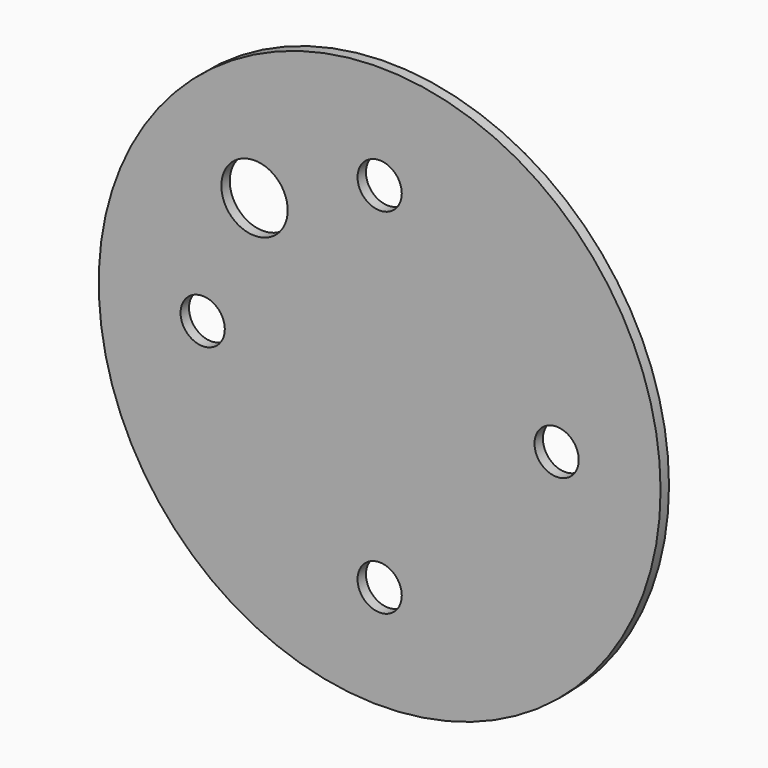
from build123d import *

# Parameters (mm, degrees)
F0_R     = 127
F0_R_2   = 10
F0_R_3   = 15
F1_DEPTH = 4.763


with BuildPart() as f1:
    # F0 (on Front) → F1 (new body)
    with BuildSketch(Plane.XZ):
        Circle(F0_R)
        with Locations((0, -80)):
            Circle(F0_R_2, mode=Mode.SUBTRACT)
        with Locations((-80, 0)):
            Circle(F0_R_2, mode=Mode.SUBTRACT)
        with Locations((-56.568542, 56.568542)):
            Circle(F0_R_3, mode=Mode.SUBTRACT)
        with Locations((80, 0)):
            Circle(F0_R_2, mode=Mode.SUBTRACT)
        with Locations((0, 80)):
            Circle(F0_R_2, mode=Mode.SUBTRACT)
    extrude(amount=F1_DEPTH)


solid = f1.part
